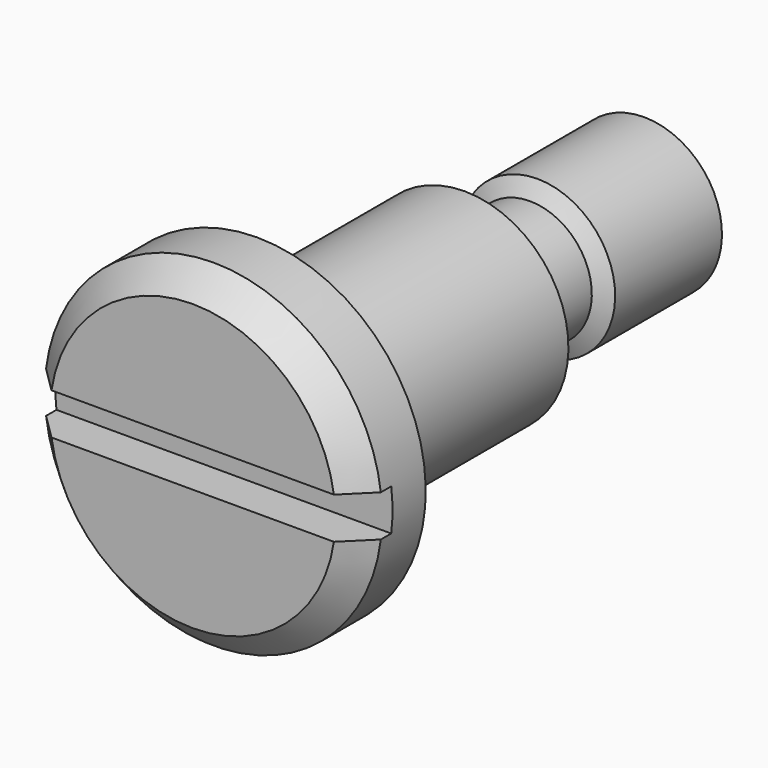
from build123d import *

# Parameters (mm, degrees)
SKETCH001_W  = 1.6
SKETCH001_H  = 13
POCKET_DEPTH = 1.5


with BuildPart() as part:
    # Sketch → Revolution (revolve)
    with BuildSketch(Plane.YZ):
        Polygon((0, 0), (0, 5.5), (1, 6.5), (3.1, 6.5), (3.1, 4), (13.1, 4), (13.1, 2.385), (16.24493, 2.385), (16.6, 3), (21.74493, 3), (22.1, 2.385), (22.1, 0), align=None)
    revolve(axis=Axis((0, 0, 0), (0, 1, 0)))

    # Sketch001 → Pocket (cut)
    with BuildSketch(Plane(origin=(0, 0, 0), x_dir=(0, 0, -1), z_dir=(0, -1, 0))):
        Rectangle(SKETCH001_W, SKETCH001_H)
    extrude(amount=-POCKET_DEPTH, mode=Mode.SUBTRACT)


solid = part.part
